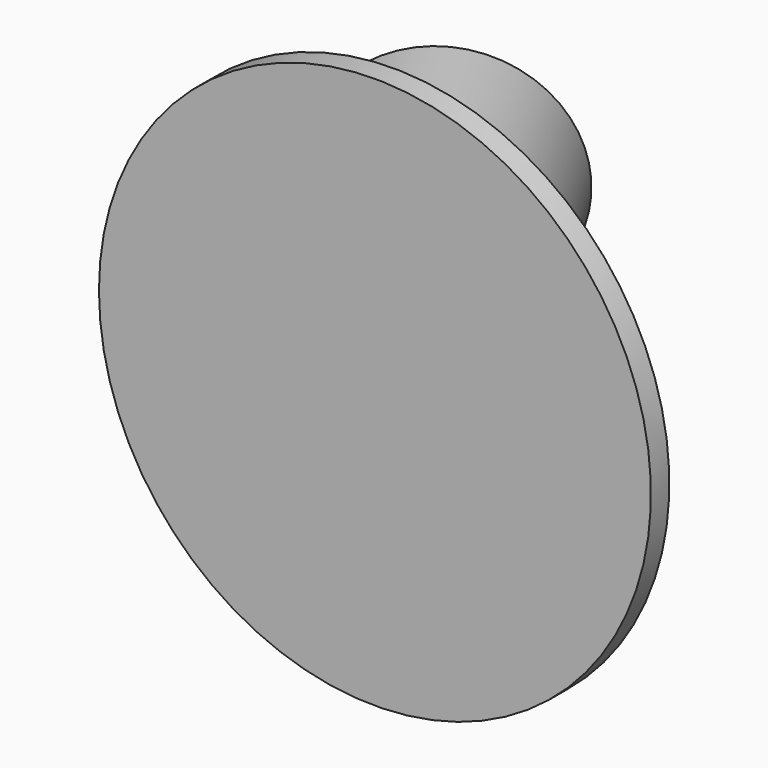
from build123d import *

# Parameters (mm, degrees)
F2_R          = 38.1
F3_DEPTH      = 3.175
F6_R          = 15.875
F6_R_2        = 12.7
F7_DEPTH      = 50.8
F7_DEPTH_BACK = 6.35
F9_DEPTH      = 25.4
F9_DEPTH_BACK = 25.4


with BuildPart() as f3:
    # F2 (on line) → F3 (new body)
    with BuildSketch(Plane(origin=(0, 0, 0), x_dir=(-1, 0, 0), z_dir=(0, 1, 0))):
        Circle(F2_R)
    extrude(amount=F3_DEPTH)

    # F6 (on line) → F7 (join, two sides)
    with BuildSketch(Plane(origin=(0, 0, 0), x_dir=(-0.8660254038, -0.5, 0), z_dir=(-0.5, 0.8660254038, 0))) as f7_sk:
        Circle(F6_R)
        Circle(F6_R_2, mode=Mode.SUBTRACT)
    extrude(amount=F7_DEPTH)
    extrude(f7_sk.sketch, amount=-F7_DEPTH_BACK)

    # F8 (on Right) → F9 (cut, two sides)
    with BuildSketch(Plane.YZ) as f9_sk:
        Polygon((0, -20.3028712422), (0, 23.2852003007), (-20.0170747743, 19.199454845), (-8.2928827169, -22.6273914554), align=None)
    extrude(amount=-F9_DEPTH, mode=Mode.SUBTRACT)
    extrude(f9_sk.sketch, amount=F9_DEPTH_BACK, mode=Mode.SUBTRACT)


solid = f3.part
